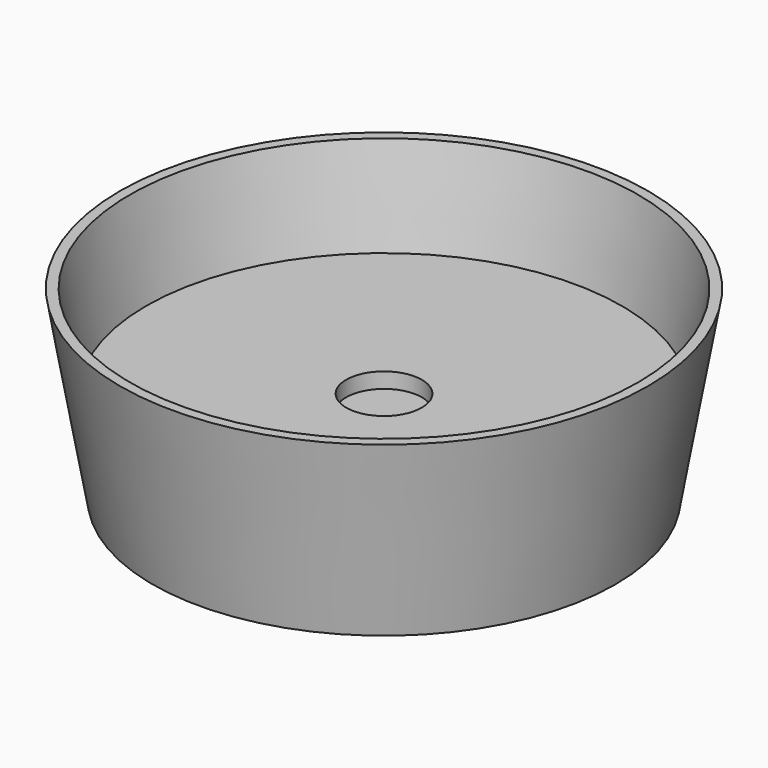
from build123d import *

# Parameters (mm, degrees)
F0_R     = 190.5
F1_DEPTH = 152.4
F1_TAPER = -10
F2_R     = 31.115
F3_DEPTH = 88.9
F4_R     = 209.1526888915
F5_DEPTH = 76.2
F5_TAPER = 10


with BuildPart() as f1:
    # F0 (on Top) → F1 (new body)
    with BuildSketch(Plane.XY):
        Circle(F0_R)
    extrude(amount=F1_DEPTH, taper=F1_TAPER)

    # F2 (on face) → F3 (cut)
    with BuildSketch(Plane.XY.offset(152.4)):
        Circle(F2_R)
    extrude(amount=-F3_DEPTH, mode=Mode.SUBTRACT)

    # F4 (on face) → F5 (cut)
    with BuildSketch(Plane.XY.offset(152.4)):
        Circle(F4_R)
    extrude(amount=-F5_DEPTH, taper=F5_TAPER, mode=Mode.SUBTRACT)


solid = f1.part
